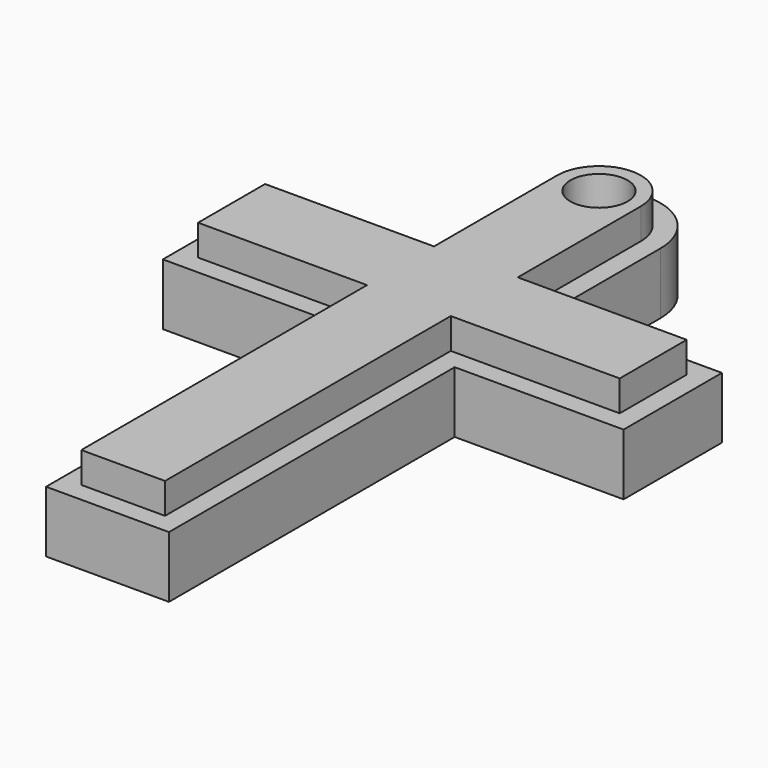
from build123d import *

# Parameters (mm, degrees)
F0_R     = 1.184041
F1_DEPTH = 2.54
F2_DEPTH = 3.81


with BuildPart() as f1:
    # F0 (on Top) → F1 (new body)
    with BuildSketch(Plane.XY):
        with BuildLine():
            Line((-2.54, 2.066765), (-2.54, -12.7))
            Line((-2.54, -12.7), (2.54, -12.7))
            Line((2.54, -12.7), (2.54, 2.066765))
            Line((2.54, 2.066765), (9.525, 2.066765))
            Line((9.525, 2.066765), (9.525, 7.146765))
            Line((9.525, 7.146765), (2.54, 7.146765))
            Line((2.54, 7.146765), (2.54, 12.7))
            ThreePointArc((2.54, 12.7), (0, 15.24), (-2.54, 12.7))
            Line((-2.54, 12.7), (-2.54, 7.146765))
            Line((-2.54, 7.146765), (-9.525, 7.146765))
            Line((-9.525, 7.146765), (-9.525, 2.066765))
            Line((-9.525, 2.066765), (-2.54, 2.066765))
        make_face()
        with BuildLine():
            Line((1.73131, 12.7), (1.73131, 6.338075))
            Line((1.73131, 6.338075), (8.71631, 6.338075))
            Line((8.71631, 6.338075), (8.71631, 2.875455))
            Line((8.71631, 2.875455), (1.73131, 2.875455))
            Line((1.73131, 2.875455), (1.73131, -11.89131))
            Line((1.73131, -11.89131), (-1.73131, -11.89131))
            Line((-1.73131, -11.89131), (-1.73131, 2.875455))
            Line((-1.73131, 2.875455), (-8.71631, 2.875455))
            Line((-8.71631, 2.875455), (-8.71631, 6.338075))
            Line((-8.71631, 6.338075), (-1.73131, 6.338075))
            Line((-1.73131, 6.338075), (-1.73131, 12.7))
            ThreePointArc((-1.73131, 12.7), (0, 14.43131), (1.73131, 12.7))
        make_face(mode=Mode.SUBTRACT)
        with BuildLine():
            Line((8.71631, 6.338075), (1.73131, 6.338075))
            Line((1.73131, 6.338075), (1.73131, 12.7))
            ThreePointArc((1.73131, 12.7), (0, 14.43131), (-1.73131, 12.7))
            Line((-1.73131, 12.7), (-1.73131, 6.338075))
            Line((-1.73131, 6.338075), (-8.71631, 6.338075))
            Line((-8.71631, 6.338075), (-8.71631, 2.875455))
            Line((-8.71631, 2.875455), (-1.73131, 2.875455))
            Line((-1.73131, 2.875455), (-1.73131, -11.89131))
            Line((-1.73131, -11.89131), (1.73131, -11.89131))
            Line((1.73131, -11.89131), (1.73131, 2.875455))
            Line((1.73131, 2.875455), (8.71631, 2.875455))
            Line((8.71631, 2.875455), (8.71631, 6.338075))
        make_face()
        with Locations((0, 12.7)):
            Circle(F0_R, mode=Mode.SUBTRACT)
    extrude(amount=F1_DEPTH)

    # F0 (on Top) → F2 (join)
    with BuildSketch(Plane.XY):
        with BuildLine():
            Line((8.71631, 6.338075), (1.73131, 6.338075))
            Line((1.73131, 6.338075), (1.73131, 12.7))
            ThreePointArc((1.73131, 12.7), (0, 14.43131), (-1.73131, 12.7))
            Line((-1.73131, 12.7), (-1.73131, 6.338075))
            Line((-1.73131, 6.338075), (-8.71631, 6.338075))
            Line((-8.71631, 6.338075), (-8.71631, 2.875455))
            Line((-8.71631, 2.875455), (-1.73131, 2.875455))
            Line((-1.73131, 2.875455), (-1.73131, -11.89131))
            Line((-1.73131, -11.89131), (1.73131, -11.89131))
            Line((1.73131, -11.89131), (1.73131, 2.875455))
            Line((1.73131, 2.875455), (8.71631, 2.875455))
            Line((8.71631, 2.875455), (8.71631, 6.338075))
        make_face()
        with Locations((0, 12.7)):
            Circle(F0_R, mode=Mode.SUBTRACT)
    extrude(amount=F2_DEPTH)


solid = f1.part
